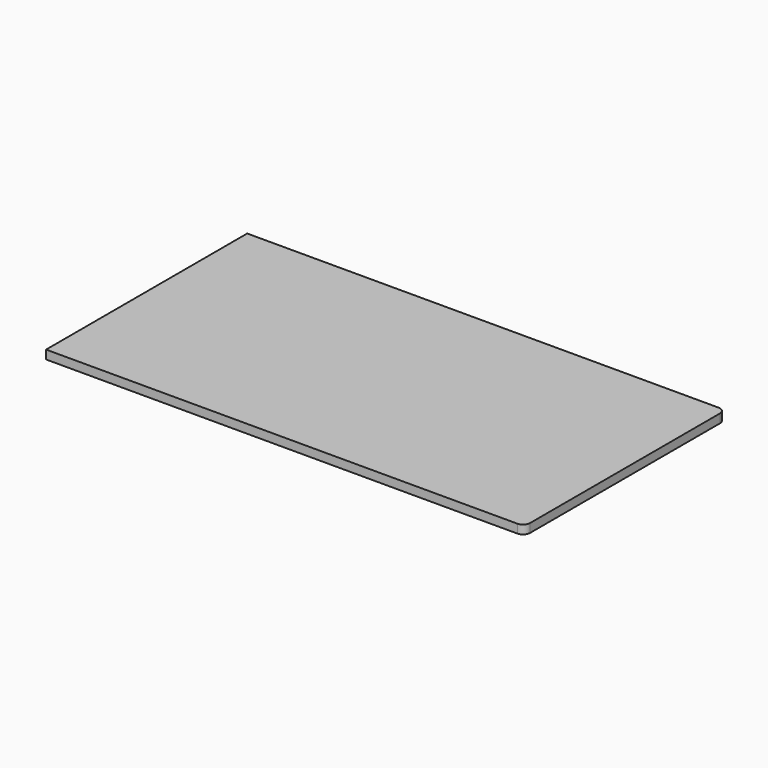
from build123d import *

# Parameters (mm, degrees)
F0_W     = 1739.9
F0_H     = 914.4
F1_DEPTH = 31.75
F2_R     = 25.4


with BuildPart() as f1:
    # F0 (on Top) → F1 (new body)
    with BuildSketch(Plane.XY):
        with Locations((869.95, 457.2)):
            Rectangle(F0_W, F0_H)
    extrude(amount=-F1_DEPTH)

    # F2
    f2_edges = [f1.edges().sort_by_distance(p)[0] for p in [
        (1739.9, 0, -15.875),
        (1739.9, 914.4, -15.875),
    ]]
    fillet(f2_edges, radius=F2_R)


solid = f1.part
